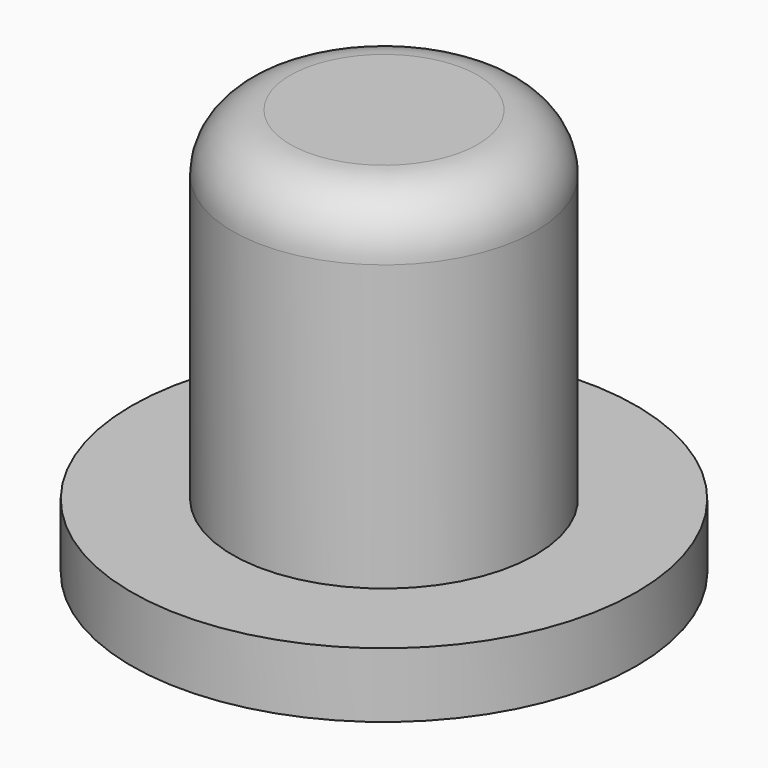
from build123d import *

# Parameters (mm, degrees)
SKETCH_R     = 5.334
PAD_DEPTH    = 12.065
SKETCH001_R  = 8.89
PAD001_DEPTH = 2.286
SKETCH002_R  = 4.572
POCKET_DEPTH = 3.302
FILLET_R     = 2.032


with BuildPart() as part:
    # Sketch → Pad (new body)
    with BuildSketch(Plane.XY):
        Circle(SKETCH_R)
    extrude(amount=PAD_DEPTH)

    # Sketch001 → Pad001 (new body)
    with BuildSketch(Plane(origin=(0, 0, 0), x_dir=(1, 0, 0), z_dir=(0, 0, -1))):
        Circle(SKETCH001_R)
    extrude(amount=PAD001_DEPTH)

    # Sketch002 → Pocket (cut)
    with BuildSketch(Plane(origin=(0, 0, -2.286), x_dir=(1, 0, 0), z_dir=(0, 0, -1))):
        Circle(SKETCH002_R)
    extrude(amount=-POCKET_DEPTH, mode=Mode.SUBTRACT)

    # Fillet
    fillet_edges = [part.edges().sort_by_distance(p)[0] for p in [
        (-5.334, 0, 12.065),
    ]]
    fillet(fillet_edges, radius=FILLET_R)


solid = part.part
